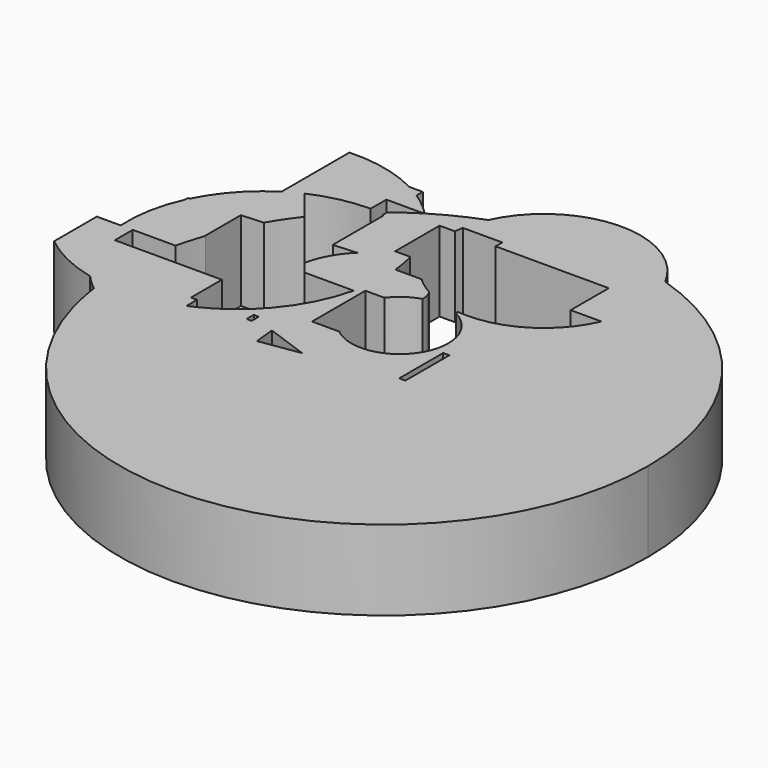
from build123d import *

# Parameters (mm, degrees)
F0_W     = 1.5750005841
F0_H     = 2.8000008315
F0_W_2   = 1.9249971956
F0_H_2   = 17.1500016004
F1_DEPTH = 25


with BuildPart() as f1:
    # F0 (on Top) → F1 (new body)
    with BuildSketch(Plane.XY):
        with BuildLine():
            Line((-60.287501663, 60.446803747), (-60.287501663, 55.3875006735))
            Line((-60.287501663, 55.3875006735), (-37.5316644539, 55.3875006735))
            ThreePointArc((-37.5316644539, 55.3875006735), (-48.5828066181, 59.3869339908), (-60.287501663, 60.446803747))
        make_face()
        with BuildLine():
            Line((-33.3374999464, 55.3875006735), (-37.5316644539, 55.3875006735))
            ThreePointArc((-37.5316644539, 55.3875006735), (-35.4021280758, 54.2180597299), (-33.3374999464, 52.9375020415))
            Line((-33.3374999464, 52.9375020415), (-33.3374999464, 55.3875006735))
        make_face()
        with BuildLine():
            ThreePointArc((-76.0375037789, 15.9143227634), (-75.7709475165, 16.4842679229), (-75.4959159662, 17.0501719537))
            Line((-75.4959159662, 17.0501719537), (-76.0375037789, 17.0148961203))
            Line((-76.0375037789, 17.0148961203), (-76.0375037789, 15.9143227634))
        make_face()
        with BuildLine():
            ThreePointArc((-68.8622549791, -30.0780482485), (-76.4982369381, -18.1978324961), (-79.782805532, -4.4625001028))
            Line((-79.782805532, -4.4625001028), (-87.2375071049, -4.4625001028))
            Line((-87.2375071049, -4.4625001028), (-87.2375071049, -21.1667587193))
            ThreePointArc((-87.2375071049, -21.1667587193), (-78.5521392934, -26.6580697555), (-68.8622549791, -30.0780482485))
        make_face()
        with BuildLine():
            Line((-76.0375037789, -4.4625001028), (-76.0375037789, 15.9143227634))
            ThreePointArc((-76.0375037789, 15.9143227634), (-79.1812251559, 5.9595366901), (-79.782805532, -4.4625001028))
            Line((-79.782805532, -4.4625001028), (-76.0375037789, -4.4625001028))
        make_face()
        with BuildLine():
            ThreePointArc((-64.5376681468, -30.8610487078), (-66.7093450323, -30.5213742814), (-68.8622549791, -30.0780482485))
            ThreePointArc((-68.8622549791, -30.0780482485), (-66.5768414846, -32.3968522842), (-64.1193222606, -34.5324005185))
            ThreePointArc((-64.1193222606, -34.5324005185), (-64.3490606807, -32.6990680232), (-64.5376681468, -30.8610487078))
        make_face()
        with BuildLine():
            ThreePointArc((42.5177226998, 55.2457419531), (20.5066660785, 70.9944581251), (-5.2679600643, 62.7375021577))
            Line((-5.2679600643, 62.7375021577), (2.8875006828, 62.7375021577))
            Line((2.8875006828, 62.7375021577), (2.8875006828, 57.7835510474))
            ThreePointArc((2.8875006828, 57.7835510474), (22.8576505526, 58.9357208461), (42.5177226998, 55.2457419531))
        make_face()
        with BuildLine():
            ThreePointArc((-5.2679600643, 62.7375021577), (-8.8258453921, 58.5470194508), (-11.5636143117, 53.7801216477))
            ThreePointArc((-11.5636143117, 53.7801216477), (-4.4292414273, 56.1109839846), (2.8875006828, 57.7835510474))
            Line((2.8875006828, 57.7835510474), (2.8875006828, 62.7375021577))
            Line((2.8875006828, 62.7375021577), (-5.2679600643, 62.7375021577))
        make_face()
        with BuildLine():
            ThreePointArc((-40.6875014305, -43.7207930158), (-53.105015367, -40.9157941716), (-64.1193222606, -34.5324005185))
            ThreePointArc((-64.1193222606, -34.5324005185), (-63.1259669187, -40.2772199028), (-61.7292122183, -45.9375008941))
            Line((-61.7292122183, -45.9375008941), (-40.6875014305, -45.9375008941))
            Line((-40.6875014305, -45.9375008941), (-40.6875014305, -43.7207930158))
        make_face()
        with BuildLine():
            Line((-55.2929938789, 36.6608201864), (-60.287501663, 42.9088893908))
            Line((-60.287501663, 42.9088893908), (-60.287501663, 33.9481715731))
            ThreePointArc((-60.287501663, 33.9481715731), (-57.8360079231, 35.3887491204), (-55.2929938789, 36.6608201864))
        make_face()
        with BuildLine():
            Line((-60.287501663, 18.0407582945), (-60.287501663, 33.9481715731))
            ThreePointArc((-60.287501663, 33.9481715731), (-69.0520954233, 26.543534451), (-75.4959159662, 17.0501719537))
            Line((-75.4959159662, 17.0501719537), (-60.287501663, 18.0407582945))
        make_face()
        with BuildLine():
            ThreePointArc((-25.8178493246, 46.7570204938), (-29.4132648585, 50.0472948851), (-33.3374999464, 52.9375020415))
            Line((-33.3374999464, 52.9375020415), (-33.3374999464, 46.6375015676))
            Line((-33.3374999464, 46.6375015676), (-26.010335776, 46.6375015676))
            ThreePointArc((-26.010335776, 46.6375015676), (-25.914133597, 46.6973271368), (-25.8178493246, 46.7570204938))
        make_face()
        with BuildLine():
            ThreePointArc((-11.5636143117, 53.7801216477), (-18.8602858145, 50.6127014568), (-25.8178493246, 46.7570204938))
            ThreePointArc((-25.8178493246, 46.7570204938), (-25.7592995368, 46.6973143535), (-25.7008586993, 46.6375015676))
            Line((-25.7008586993, 46.6375015676), (-13.816092535, 46.6375015676))
            ThreePointArc((-13.816092535, 46.6375015676), (-12.9125286748, 50.2790338999), (-11.5636143117, 53.7801216477))
        make_face()
        with BuildLine():
            ThreePointArc((-25.7008586993, 46.6375015676), (-25.7592995368, 46.6973143535), (-25.8178493246, 46.7570204938))
            ThreePointArc((-25.8178493246, 46.7570204938), (-25.914133597, 46.6973271368), (-26.010335776, 46.6375015676))
            Line((-26.010335776, 46.6375015676), (-25.7008586993, 46.6375015676))
        make_face()
        with BuildLine():
            Line((-76.0375037789, -11.4625003189), (-76.0375037789, -4.4625001028))
            Line((-76.0375037789, -4.4625001028), (-79.782805532, -4.4625001028))
            ThreePointArc((-79.782805532, -4.4625001028), (-76.4982369381, -18.1978324961), (-68.8622549791, -30.0780482485))
            ThreePointArc((-68.8622549791, -30.0780482485), (-66.7093450323, -30.5213742814), (-64.5376681468, -30.8610487078))
            ThreePointArc((-64.5376681468, -30.8610487078), (-64.8495079797, -21.1463820593), (-64.0161853461, -11.4625003189))
            Line((-64.0161853461, -11.4625003189), (-76.0375037789, -11.4625003189))
        make_face()
        with BuildLine():
            ThreePointArc((2.8875006828, 57.7835510474), (-4.4292414273, 56.1109839846), (-11.5636143117, 53.7801216477))
            ThreePointArc((-11.5636143117, 53.7801216477), (-12.9125286748, 50.2790338999), (-13.816092535, 46.6375015676))
            Line((-13.816092535, 46.6375015676), (-1.4875002671, 46.6375015676))
            Line((-1.4875002671, 46.6375015676), (-1.4875002671, 44.0125018358))
            Line((-1.4875002671, 44.0125018358), (2.8875006828, 44.0125018358))
            Line((2.8875006828, 44.0125018358), (2.8875006828, 57.7835510474))
        make_face()
        with BuildLine():
            ThreePointArc((42.5177226998, 55.2457419531), (22.8576505526, 58.9357208461), (2.8875006828, 57.7835510474))
            Line((2.8875006828, 57.7835510474), (2.8875006828, 44.0125018358))
            Line((2.8875006828, 44.0125018358), (33.8625051081, 44.0125018358))
            Line((33.8625051081, 44.0125018358), (33.8625051081, 29.1375014931))
            Line((33.8625051081, 29.1375014931), (43.4592417746, 29.1375014931))
            ThreePointArc((43.4592417746, 29.1375014931), (45.3455013072, 35.0445136323), (45.9832490573, 41.2124991417))
            ThreePointArc((45.9832490573, 41.2124991417), (45.1040464698, 48.4399083722), (42.5177226998, 55.2457419531))
        make_face()
        with BuildLine():
            ThreePointArc((-55.2929938789, 36.6608201864), (-57.8360079231, 35.3887491204), (-60.287501663, 33.9481715731))
            Line((-60.287501663, 33.9481715731), (-60.287501663, 18.0407582945))
            Line((-60.287501663, 18.0407582945), (-53.4729691366, 18.4846167208))
            ThreePointArc((-53.4729691366, 18.4846167208), (-50.6941725689, 22.8801712722), (-47.6438605363, 27.0918463169))
            Line((-47.6438605363, 27.0918463169), (-55.2929938789, 36.6608201864))
        make_face()
        with BuildLine():
            Line((-37.5316644539, 55.3875006735), (-60.287501663, 55.3875006735))
            Line((-60.287501663, 55.3875006735), (-60.287501663, 42.9088893908))
            Line((-60.287501663, 42.9088893908), (-55.2929938789, 36.6608201864))
            ThreePointArc((-55.2929938789, 36.6608201864), (-46.7099970075, 39.52967998), (-37.7124994993, 40.5008804737))
            Line((-37.7124994993, 40.5008804737), (-37.7124994993, 46.6375015676))
            Line((-37.7124994993, 46.6375015676), (-33.3374999464, 46.6375015676))
            Line((-33.3374999464, 46.6375015676), (-33.3374999464, 52.9375020415))
            ThreePointArc((-33.3374999464, 52.9375020415), (-35.4021280758, 54.2180597299), (-37.5316644539, 55.3875006735))
        make_face()
        with BuildLine():
            Line((-60.287501663, 18.0407582945), (-75.4959159662, 17.0501719537))
            ThreePointArc((-75.4959159662, 17.0501719537), (-75.7709475165, 16.4842679229), (-76.0375037789, 15.9143227634))
            Line((-76.0375037789, 15.9143227634), (-76.0375037789, -4.4625001028))
            Line((-76.0375037789, -4.4625001028), (-62.6842973775, -4.4625001028))
            ThreePointArc((-62.6842973775, -4.4625001028), (-61.5423184863, -0.140887759), (-60.1678587237, 4.1125002317))
            Line((-60.1678587237, 4.1125002317), (-60.287501663, 4.1125002317))
            Line((-60.287501663, 4.1125002317), (-60.287501663, 18.0407582945))
        make_face()
        with BuildLine():
            Line((-42.6125004888, -11.4625003189), (-64.0161853461, -11.4625003189))
            ThreePointArc((-64.0161853461, -11.4625003189), (-64.8495079797, -21.1463820593), (-64.5376681468, -30.8610487078))
            ThreePointArc((-64.5376681468, -30.8610487078), (-64.3490606807, -32.6990680232), (-64.1193222606, -34.5324005185))
            ThreePointArc((-64.1193222606, -34.5324005185), (-53.105015367, -40.9157941716), (-40.6875014305, -43.7207930158))
            Line((-40.6875014305, -43.7207930158), (-40.6875014305, -27.6394008172))
            Line((-40.6875014305, -27.6394008172), (-40.6875014305, -23.5375016928))
            Line((-40.6875014305, -23.5375016928), (-42.6125004888, -23.5375016928))
            Line((-42.6125004888, -23.5375016928), (-42.6125004888, -11.4625003189))
        make_face()
        with BuildLine():
            ThreePointArc((100.0542931902, -23.3625005931), (84.1333018551, 25.3450777187), (42.5177226998, 55.2457419531))
            ThreePointArc((42.5177226998, 55.2457419531), (45.1040464698, 48.4399083722), (45.9832490573, 41.2124991417))
            ThreePointArc((45.9832490573, 41.2124991417), (45.3455013072, 35.0445136323), (43.4592417746, 29.1375014931))
            ThreePointArc((43.4592417746, 29.1375014931), (36.2730193538, 19.0504654477), (25.6374981254, 12.7041454856))
            ThreePointArc((25.6374981254, 12.7041454856), (19.3323665599, 11.2700192713), (12.8664397565, 11.2135158965))
            ThreePointArc((12.8664397565, 11.2135158965), (13.0305268991, 10.7404952978), (13.1845496697, 10.2641025362))
            ThreePointArc((13.1845496697, 10.2641025362), (19.2567912305, 4.6918449856), (21.5034906945, -3.2375000883))
            ThreePointArc((21.5034906945, -3.2375000883), (16.6662139014, -14.3208752648), (5.2503431362, -18.3106555531))
            ThreePointArc((5.2503431362, -18.3106555531), (3.4658546011, -18.0684517067), (1.7228337461, -17.6157483444))
            ThreePointArc((1.7228337461, -17.6157483444), (1.4653706165, -17.7505873056), (1.2062676313, -17.8822476702))
            ThreePointArc((1.2062676313, -17.8822476702), (-11.6833563355, -20.2647599018), (-23.8580149115, -15.4071412368))
            ThreePointArc((-23.8580149115, -15.4071412368), (-28.1534469836, -19.7481587713), (-32.9875014722, -23.4800600457))
            Line((-32.9875014722, -23.4800600457), (-32.9875014722, -23.5375016928))
            Line((-32.9875014722, -23.5375016928), (-33.0733501695, -23.5375016928))
            ThreePointArc((-33.0733501695, -23.5375016928), (-36.7835289452, -25.7683160656), (-40.6875014305, -27.6394008172))
            Line((-40.6875014305, -27.6394008172), (-40.6875014305, -43.7207930158))
            Line((-40.6875014305, -43.7207930158), (-40.6875014305, -45.9375008941))
            Line((-40.6875014305, -45.9375008941), (-61.7292122183, -45.9375008941))
            ThreePointArc((-61.7292122183, -45.9375008941), (28.9843610915, -105.0379761975), (100.0542931902, -23.3625005931))
        make_face()
        with Locations((-24.1500008851, -22.4875016138)):
            Rectangle(F0_W, F0_H, mode=Mode.SUBTRACT)
        Polygon((-16.3625013083, -24.7625019401), (-5.3410292506, -28.6780244764), (-3.0625001527, -29.4875018299), (-6.5037558039, -30.0132489437), (-15.6625006348, -31.4125008881), align=None, mode=Mode.SUBTRACT)
        with Locations((24.6749995276, -16.5375014767)):
            Rectangle(F0_W_2, F0_H_2, mode=Mode.SUBTRACT)
        with BuildLine():
            ThreePointArc((-13.8878015443, 4.1125002317), (-17.6898080597, -6.2516226426), (-23.8580149115, -15.4071412368))
            ThreePointArc((-23.8580149115, -15.4071412368), (-11.6833563355, -20.2647599018), (1.2062676313, -17.8822476702))
            ThreePointArc((1.2062676313, -17.8822476702), (1.2863458282, -17.6887507337), (1.365462001, -17.4948584614))
            ThreePointArc((1.365462001, -17.4948584614), (-1.0029465105, -16.4236454299), (-3.1528093331, -14.9624999613))
            Line((-3.1528093331, -14.9624999613), (-11.6375004873, -14.9624999613))
            Line((-11.6375004873, -14.9624999613), (-11.6375004873, 4.1125002317))
            Line((-11.6375004873, 4.1125002317), (-13.8878015443, 4.1125002317))
        make_face()
        with BuildLine():
            ThreePointArc((-26.8020215903, 19.1625021398), (-30.3760334738, 14.0159051528), (-32.4708454793, 8.1105868589))
            Line((-32.4708454793, 8.1105868589), (-29.2749022002, 4.1125002317))
            Line((-29.2749022002, 4.1125002317), (-13.8878015443, 4.1125002317))
            ThreePointArc((-13.8878015443, 4.1125002317), (-12.7690712668, 11.596456773), (-12.8960376116, 19.1625021398))
            Line((-12.8960376116, 19.1625021398), (-26.8020215903, 19.1625021398))
        make_face()
        with BuildLine():
            ThreePointArc((-18.9875010401, 36.1148091341), (-25.9768398827, 38.8347214631), (-33.3374999464, 40.2732846221))
            Line((-33.3374999464, 40.2732846221), (-33.3374999464, 39.6375022829))
            Line((-33.3374999464, 39.6375022829), (-32.9875014722, 39.6375022829))
            Line((-32.9875014722, 39.6375022829), (-32.9875014722, 19.8189191699))
            Line((-32.9875014722, 19.8189191699), (-25.6973300422, 20.293757907))
            ThreePointArc((-25.6973300422, 20.293757907), (-20.3728048308, 24.1304603645), (-14.1980249826, 26.3537345941))
            ThreePointArc((-14.1980249826, 26.3537345941), (-14.2425753135, 26.5207023114), (-14.2877543869, 26.6875009984))
            Line((-14.2877543869, 26.6875009984), (-18.9875010401, 26.6875009984))
            Line((-18.9875010401, 26.6875009984), (-18.9875010401, 36.1148091341))
        make_face()
        with BuildLine():
            Line((-13.1326521775, 21.1121468607), (-25.6973300422, 20.293757907))
            ThreePointArc((-25.6973300422, 20.293757907), (-26.2591458788, 19.7373777094), (-26.8020215903, 19.1625021398))
            Line((-26.8020215903, 19.1625021398), (-12.8960376116, 19.1625021398))
            ThreePointArc((-12.8960376116, 19.1625021398), (-13.0039087804, 20.1385910575), (-13.1326521775, 21.1121468607))
        make_face()
        with BuildLine():
            ThreePointArc((-26.010335776, 46.6375015676), (-29.743617825, 44.1692464646), (-33.3374999464, 41.5020964111))
            Line((-33.3374999464, 41.5020964111), (-33.3374999464, 40.2732846221))
            ThreePointArc((-33.3374999464, 40.2732846221), (-25.9768398827, 38.8347214631), (-18.9875010401, 36.1148091341))
            Line((-18.9875010401, 36.1148091341), (-18.9875010401, 37.8427231737))
            ThreePointArc((-18.9875010401, 37.8427231737), (-22.0780231411, 42.4432789807), (-25.7008586993, 46.6375015676))
            Line((-25.7008586993, 46.6375015676), (-26.010335776, 46.6375015676))
        make_face()
        with BuildLine():
            Line((-13.816092535, 46.6375015676), (-25.7008586993, 46.6375015676))
            ThreePointArc((-25.7008586993, 46.6375015676), (-22.0780231411, 42.4432789807), (-18.9875010401, 37.8427231737))
            Line((-18.9875010401, 37.8427231737), (-18.9875010401, 44.0125018358))
            Line((-18.9875010401, 44.0125018358), (-14.1779324733, 44.0125018358))
            ThreePointArc((-14.1779324733, 44.0125018358), (-14.0258687361, 45.3289793544), (-13.816092535, 46.6375015676))
        make_face()
        with BuildLine():
            ThreePointArc((-13.1326521775, 21.1121468607), (-13.5888689785, 23.7484834671), (-14.1980249826, 26.3537345941))
            ThreePointArc((-14.1980249826, 26.3537345941), (-20.3728048308, 24.1304603645), (-25.6973300422, 20.293757907))
            Line((-25.6973300422, 20.293757907), (-13.1326521775, 21.1121468607))
        make_face()
        with BuildLine():
            ThreePointArc((1.0412029235, 14.9477739276), (-1.9640035587, 16.8840657855), (-4.7188574458, 19.1625021398))
            Line((-4.7188574458, 19.1625021398), (-12.8960376116, 19.1625021398))
            ThreePointArc((-12.8960376116, 19.1625021398), (-12.7690712668, 11.596456773), (-13.8878015443, 4.1125002317))
            Line((-13.8878015443, 4.1125002317), (-11.6375004873, 4.1125002317))
            Line((-11.6375004873, 4.1125002317), (-11.6375004873, 5.8625000529))
            Line((-11.6375004873, 5.8625000529), (-5.6824261159, 5.8625000529))
            ThreePointArc((-5.6824261159, 5.8625000529), (-2.2774442748, 9.1484543238), (1.9766668895, 11.2206355442))
            Line((1.9766668895, 11.2206355442), (1.7625642985, 13.1520195495))
            ThreePointArc((1.7625642985, 13.1520195495), (1.4121877141, 14.054035936), (1.0412029235, 14.9477739276))
        make_face()
    extrude(amount=F1_DEPTH)


solid = f1.part
